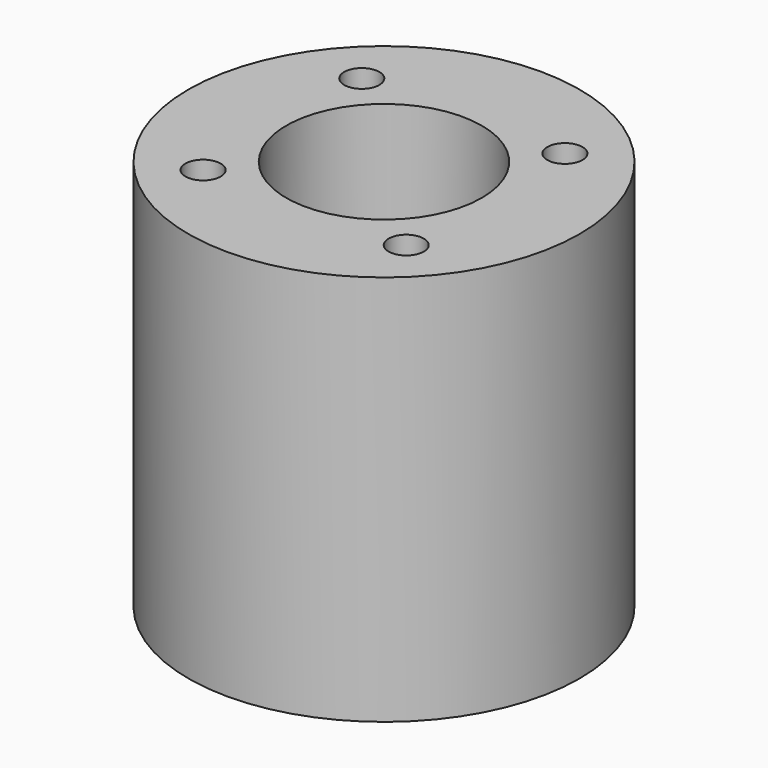
from build123d import *

# Parameters (mm, degrees)
F0_R     = 12.7
F0_R_2   = 1.143
F0_R_3   = 6.35
F1_DEPTH = 25.4
F0_R_4   = 4.0005
F2_DEPTH = 12.7
F3_DEPTH = 7.62


with BuildPart() as f1:
    # F0 (on Top) → F1 (new body)
    with BuildSketch(Plane.XY):
        Circle(F0_R)
        with Locations((-6.593356, -6.437466)):
            Circle(F0_R_2, mode=Mode.SUBTRACT)
        Circle(F0_R_3, mode=Mode.SUBTRACT)
        with Locations((6.593356, -6.437466)):
            Circle(F0_R_2, mode=Mode.SUBTRACT)
        with Locations((-6.593356, 6.437466)):
            Circle(F0_R_2, mode=Mode.SUBTRACT)
        with Locations((6.593356, 6.437466)):
            Circle(F0_R_2, mode=Mode.SUBTRACT)
    extrude(amount=F1_DEPTH)

    # F0 (on Top) → F2 (join)
    with BuildSketch(Plane.XY):
        Circle(F0_R_3)
        Circle(F0_R_4, mode=Mode.SUBTRACT)
    extrude(amount=F2_DEPTH)

    # F0 (on Top) → F3 (join)
    with BuildSketch(Plane.XY):
        Circle(F0_R_4)
    extrude(amount=F3_DEPTH)


solid = f1.part
